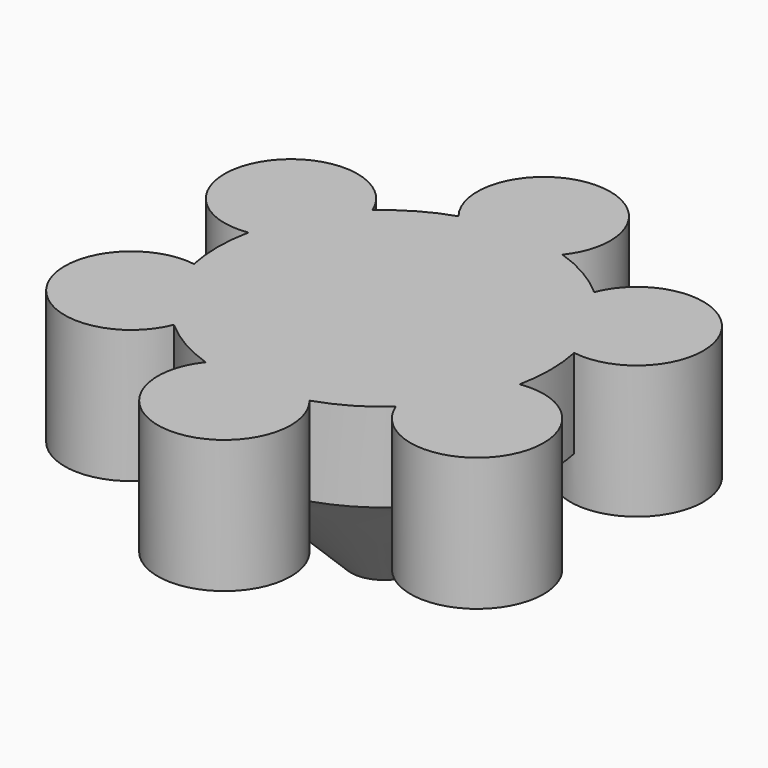
from build123d import *

# Parameters (mm, degrees)
F0_R     = 762
F1_DEPTH = 1016
F2_SIZE  = 609.6
F3_R     = 304.8
F4_DEPTH = 609.6


with BuildPart() as f1:
    # F0 (on Top) → F1 (new body)
    with BuildSketch(Plane.XY):
        Circle(F0_R)
    extrude(amount=F1_DEPTH)

    # F2
    f2_edges = [f1.edges().sort_by_distance(p)[0] for p in [
        (-762, 0, 0),
    ]]
    chamfer(f2_edges, length=F2_SIZE)

    # F3 (on face) → F4 (join)
    with BuildSketch(Plane.XY.offset(1016)):
        with Locations((0, 914.4)):
            Circle(F3_R)
        with Locations((791.893629, 457.2)):
            Circle(F3_R)
        with Locations((791.893629, -457.2)):
            Circle(F3_R)
        with Locations((0, -914.4)):
            Circle(F3_R)
        with Locations((-791.893629, -457.2)):
            Circle(F3_R)
        with Locations((-791.893629, 457.2)):
            Circle(F3_R)
    extrude(amount=-F4_DEPTH)


solid = f1.part
